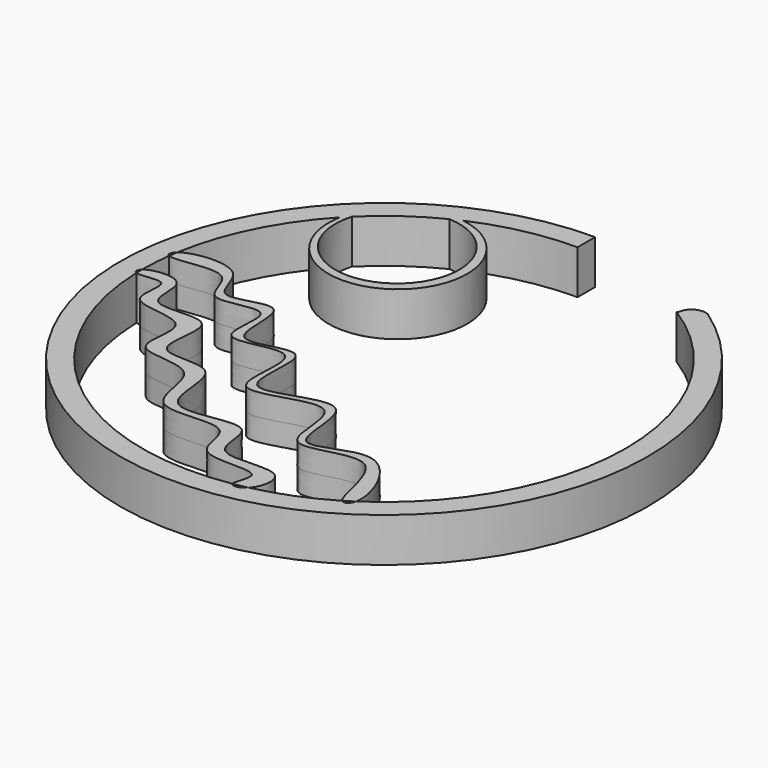
from build123d import *

# Parameters (mm, degrees)
F0_R     = 30
F1_DEPTH = 2.5
F2_W     = 24.6642269194
F2_H     = 7.3522776365
F3_DEPTH = 12.5
F5_DEPTH = 12.5


with BuildPart() as f1:
    # F0 (on Top) → F1 (new body, symmetric)
    with BuildSketch(Plane.XY):
        Circle(F0_R)
        with BuildLine():
            ThreePointArc((-11.1150369445, 25.1536469269), (15.009771551, 23.0424989527), (27.5, 0))
            ThreePointArc((27.5, 0), (24.2203438346, -13.0240141483), (15.1636403975, -22.941534602))
            add(Edge.make_bspline(
                [(15.1636403975, -22.941534602), (14.9958333757, -23.6474862472), (14.5031601765, -23.9355517297), (14.1432501331, -23.5842845063)],
                knots=[0.9789606364, 0.9789606364, 0.9789606364, 0.9789606364, 1, 1, 1, 1], degree=3))
            ThreePointArc((14.1432501331, -23.5842845063), (10.2320139637, -25.5255928481), (6.0628099975, -26.8233542819))
            add(Edge.make_bspline(
                [(4.483766755, -27.1320075867), (4.6342528162, -27.5464447738), (5.4720328431, -27.4162848284), (6.0628099975, -26.8233542819)],
                knots=[0.9730350273, 0.9730350273, 0.9730350273, 0.9730350273, 1, 1, 1, 1], degree=3))
            ThreePointArc((4.483766755, -27.1320075867), (-17.4767429798, -21.2323680925), (-27.4879041615, -0.815551843))
            add(Edge.make_bspline(
                [(-27.5, 0), (-27.8296942118, -0.3019117937), (-27.8174539139, -0.683343012), (-27.4879041615, -0.815551843)],
                knots=[0.4871806874, 0.4871806874, 0.4871806874, 0.4871806874, 0.5063798175, 0.5063798175, 0.5063798175, 0.5063798175], degree=3))
            ThreePointArc((-27.5, 0), (-27.4424369795, 1.778384837), (-27.2699888997, 3.5493246411))
            add(Edge.make_bspline(
                [(-27.2699888997, 3.5493246411), (-27.6454026128, 3.7199781968), (-27.5782156341, 4.1668936216), (-27.123106935, 4.537297675)],
                knots=[0.4768041689, 0.4768041689, 0.4768041689, 0.4768041689, 0.4959517322, 0.4959517322, 0.4959517322, 0.4959517322], degree=3))
            ThreePointArc((-27.123106935, 4.537297675), (-24.648142359, 12.1950431837), (-20.0622696114, 18.8083847802))
            ThreePointArc((-20.0622696114, 18.8083847802), (-19.6879928709, 19.1998160595), (-19.3060804036, 19.5838009449))
            ThreePointArc((-19.3060804036, 19.5838009449), (-15.9837900845, 22.3778563436), (-12.2632131259, 24.6142967364))
            ThreePointArc((-12.2632131259, 24.6142967364), (-11.6922354041, 24.8905932283), (-11.1150369445, 25.1536469269))
        make_face(mode=Mode.SUBTRACT)
        with BuildLine():
            ThreePointArc((-20.0622696114, 18.8083847802), (-7.7638433815, 10.9475245494), (-11.1150369445, 25.1536469269))
            ThreePointArc((-11.1150369445, 25.1536469269), (-11.6922354041, 24.8905932283), (-12.2632131259, 24.6142967364))
            ThreePointArc((-12.2632131259, 24.6142967364), (-8.4498412063, 11.8300685657), (-19.3060804036, 19.5838009449))
            ThreePointArc((-19.3060804036, 19.5838009449), (-19.6879928709, 19.1998160595), (-20.0622696114, 18.8083847802))
        make_face()
    extrude(amount=F1_DEPTH, both=True)

    # F2 (on Top) → F3 (cut, symmetric)
    with BuildSketch(Plane.XY):
        with Locations((12.3321134597, 28.6764353514)):
            Rectangle(F2_W, F2_H)
    extrude(amount=F3_DEPTH, both=True, mode=Mode.SUBTRACT)

    # F4 (on Top) → F5 (cut, symmetric)
    with BuildSketch(Plane.XY):
        with BuildLine():
            ThreePointArc((14.7639606148, 23.3486648649), (15.6565054299, 24.6535312427), (17.2359254211, 24.5846472681))
            Line((17.2359254211, 24.5846472681), (18.2953383774, 26.7034750432))
            Line((18.2953383774, 26.7034750432), (14.7639606148, 26.7034750432))
            Line((14.7639606148, 26.7034750432), (9.6434624866, 24.9377842993))
            Line((9.6434624866, 24.9377842993), (13.1748402491, 22.4658194929))
            Line((13.1748402491, 22.4658194929), (14.7639606148, 23.3486648649))
        make_face()
    extrude(amount=F5_DEPTH, both=True, mode=Mode.SUBTRACT)


with BuildPart() as f1b:
    # F0 (on Top) → F1, piece 2 (new body, symmetric)
    with BuildSketch(Plane.XY):
        with BuildLine():
            ThreePointArc((4.483766755, -27.1320075867), (5.2755461342, -26.9892314264), (6.0628099975, -26.8233542819))
            add(Edge.make_bspline(
                [(6.0628099975, -26.8233542819), (6.9232617871, -25.9597661319), (7.7190262856, -21.595760699), (-1.842760205, -24.6588373284), (0.4172571832, -15.8958473665), (-11.3328019955, -21.1836430431), (-8.6697401516, -9.4393355844), (-18.6260044123, -12.6782337351), (-14.4352893573, -2.5171855626), (-24.3072381108, -5.8096923326), (-21.9775720565, 1.2274758919), (-26.7750675923, 0.6638443614), (-27.5, 0)],
                knots=[0, 0, 0, 0, 0.0392737919, 0.0928812013, 0.1377801638, 0.1953173674, 0.2504342491, 0.300526499, 0.3513498641, 0.4020172273, 0.4449655949, 0.4871806874, 0.4871806874, 0.4871806874, 0.4871806874], degree=3))
            ThreePointArc((-27.5, 0), (-27.4969758741, -0.4078207688), (-27.4879041615, -0.815551843))
            add(Edge.make_bspline(
                [(-27.4879041615, -0.815551843), (-26.8623084266, -1.0665284562), (-23.1408384239, 0.294810249), (-25.9994891792, -6.1666002052), (-16.2994263377, -4.5634992986), (-20.1807013869, -13.206910122), (-10.2930243024, -11.0220207678), (-12.0462715135, -21.3428512292), (-1.2131614334, -17.6226889781), (-2.8915426889, -25.5049142933), (6.4943249255, -23.1994350059), (4.2981845675, -26.6209160007), (4.483766755, -27.1320075867)],
                knots=[0.5063798175, 0.5063798175, 0.5063798175, 0.5063798175, 0.5428261927, 0.5830492814, 0.6344447368, 0.6820216212, 0.7338228108, 0.787226303, 0.8435468615, 0.8880844121, 0.9397813254, 0.9730350273, 0.9730350273, 0.9730350273, 0.9730350273], degree=3))
        make_face()
    extrude(amount=F1_DEPTH, both=True)


with BuildPart() as f1c:
    # F0 (on Top) → F1, piece 3 (new body, symmetric)
    with BuildSketch(Plane.XY):
        with BuildLine():
            ThreePointArc((14.1432501331, -23.5842845063), (14.656968991, -23.2685036046), (15.1636403975, -22.941534602))
            add(Edge.make_bspline(
                [(-27.123106935, 4.537297675), (-25.9904628144, 5.4591345334), (-19.4841145706, 6.2835115192), (-19.9731472925, -1.0927270861), (-11.6032967424, 4.0560485218), (-14.4416252325, -7.4813530633), (-4.0833319362, -1.0969504879), (-8.5195725569, -15.0074796009), (4.9979946024, -5.9769027327), (2.4980772358, -20.2622768825), (12.1690426888, -12.056650337), (15.6057132245, -21.0817671377), (15.1636403975, -22.941534602)],
                knots=[0.4959517322, 0.4959517322, 0.4959517322, 0.4959517322, 0.5436049083, 0.583651134, 0.6267200286, 0.6736432862, 0.7190407256, 0.768914287, 0.8233508666, 0.8738693503, 0.923534285, 0.9789606364, 0.9789606364, 0.9789606364, 0.9789606364], degree=3))
            ThreePointArc((-27.123106935, 4.537297675), (-27.2010338278, 4.0439780784), (-27.2699888997, 3.5493246411))
            add(Edge.make_bspline(
                [(14.1432501331, -23.5842845063), (13.2521943332, -22.7146263724), (13.0982095515, -13.1746630978), (1.6157105436, -20.6267061955), (4.4847390271, -7.0891535041), (-9.2885988345, -15.6909368722), (-4.476346097, -1.795783615), (-15.6592323471, -7.7152789824), (-11.9659993167, 2.3717521752), (-20.4540016175, -1.9214870372), (-19.8244433451, 5.3932645249), (-26.3514434193, 3.1317771546), (-27.2699888997, 3.5493246411)],
                knots=[0, 0, 0, 0, 0.0520887019, 0.1037762726, 0.1529096928, 0.2076377013, 0.2577406222, 0.305008764, 0.3479574651, 0.391107177, 0.4299547675, 0.4768041689, 0.4768041689, 0.4768041689, 0.4768041689], degree=3))
        make_face()
    extrude(amount=F1_DEPTH, both=True)


solid = Compound([f1.part, f1b.part, f1c.part])
